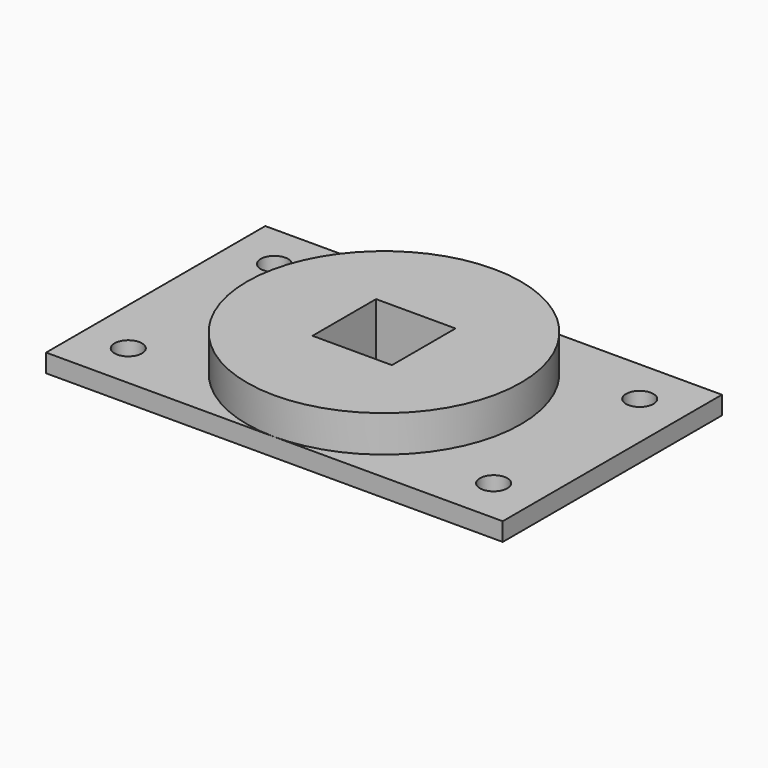
from build123d import *

# Parameters (mm, degrees)
SKETCH_W        = 50
SKETCH_H        = 30
SKETCH_R        = 1.5
PAD_DEPTH       = 2
SKETCH001_R     = 15
PAD001_DEPTH    = 4
SKETCH002_W     = 8.7
SKETCH002_H     = 8.7
POCKET_DEPTH    = 7
SKETCH003_R     = 2
PAD002_DEPTH    = 2
SKETCH004_R     = 1
POCKET001_DEPTH = 3


with BuildPart() as part:
    # Sketch → Pad (new body)
    with BuildSketch(Plane.XY):
        Rectangle(SKETCH_W, SKETCH_H)
        with Locations((-20, 10)):
            Circle(SKETCH_R, mode=Mode.SUBTRACT)
        with Locations((-20, -10)):
            Circle(SKETCH_R, mode=Mode.SUBTRACT)
        with Locations((20, -10)):
            Circle(SKETCH_R, mode=Mode.SUBTRACT)
        with Locations((20, 10)):
            Circle(SKETCH_R, mode=Mode.SUBTRACT)
    extrude(amount=PAD_DEPTH)

    # Sketch001 → Pad001 (new body)
    with BuildSketch(Plane.XY.offset(2)):
        Circle(SKETCH001_R)
    extrude(amount=PAD001_DEPTH)

    # Sketch002 → Pocket (cut)
    with BuildSketch(Plane.XY.offset(6)):
        Rectangle(SKETCH002_W, SKETCH002_H)
    extrude(amount=-POCKET_DEPTH, mode=Mode.SUBTRACT)

    # Sketch003 → Pad002 (new body)
    with BuildSketch(Plane(origin=(0, 0, 0), x_dir=(1, 0, 0), z_dir=(0, 0, -1))):
        with Locations((-10.5, 0)):
            Circle(SKETCH003_R)
        with Locations((10.5, -12.5)):
            Circle(SKETCH003_R)
        with Locations((-10.5, -12.5)):
            Circle(SKETCH003_R)
        with Locations((10.5, 0)):
            Circle(SKETCH003_R)
    extrude(amount=PAD002_DEPTH)

    # Sketch004 → Pocket001 (cut)
    with BuildSketch(Plane(origin=(0, 0, -2), x_dir=(1, 0, 0), z_dir=(0, 0, -1))):
        with Locations((-10.5, 0)):
            Circle(SKETCH004_R)
        with Locations((10.5, 0)):
            Circle(SKETCH004_R)
        with Locations((10.5, -12.5)):
            Circle(SKETCH004_R)
        with Locations((-10.5, -12.5)):
            Circle(SKETCH004_R)
    extrude(amount=-POCKET001_DEPTH, mode=Mode.SUBTRACT)


solid = part.part
